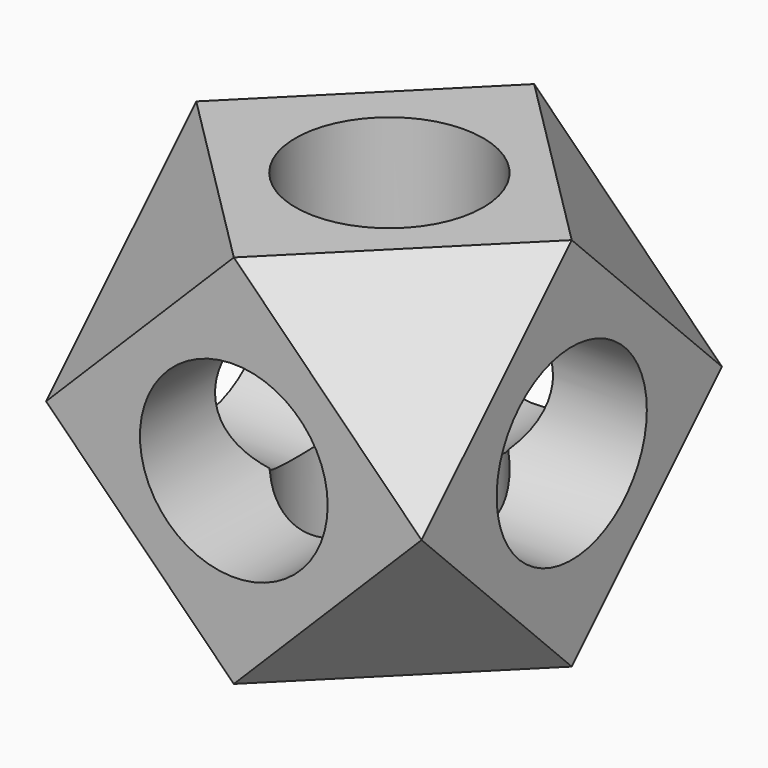
from build123d import *

# Parameters (mm, degrees)
F0_W      = 101.6
F0_H      = 101.6
F1_DEPTH  = 50.8
F6_W      = 98.9533215761
F6_H      = 109.5847634133
F7_DEPTH  = 29.3303936748
F9_R      = 55.4258032392
F10_DEPTH = 29.3303936748
F12_R     = 66.861305092
F13_DEPTH = 29.3303936748
F15_R     = 63.7455085669
F16_DEPTH = 29.3303936748
F21_R     = 117.7935216741
F22_DEPTH = 29.3303936748
F24_R     = 77.2031317043
F25_DEPTH = 29.3303936748
F27_R     = 77.6037163902
F28_DEPTH = 29.3303936748
F30_R     = 68.124609224
F31_DEPTH = 29.3303936748
F32_R     = 25.4
F33_DEPTH = 101.601
F34_R     = 25.4
F35_DEPTH = 101.601
F36_R     = 25.4
F37_DEPTH = 101.601


with BuildPart() as f1:
    # F0 (on Top) → F1 (new body, symmetric)
    with BuildSketch(Plane.XY):
        Rectangle(F0_W, F0_H)
    extrude(amount=F1_DEPTH, both=True)

    # F6 (on face) → F7 (cut, through all)
    with BuildSketch(Plane(origin=(-33.8666666667, -33.8666666667, 33.8666666667), x_dir=(0.8164965809, -0.4082482905, 0.4082482905), z_dir=(-0.5773502692, -0.5773502692, 0.5773502692))):
        with Locations((0, -1.2222639052)):
            Rectangle(F6_W, F6_H)
    extrude(amount=F7_DEPTH, mode=Mode.SUBTRACT)

    # F9 (on face) → F10 (cut, through all)
    with BuildSketch(Plane(origin=(33.8666666667, -33.8666666667, 33.8666666667), x_dir=(0.8164965809, 0.4082482905, -0.4082482905), z_dir=(-0.5773502692, 0.5773502692, -0.5773502692))):
        with Locations((-7.7910861, -7.1166269481)):
            Circle(F9_R)
    extrude(amount=-F10_DEPTH, mode=Mode.SUBTRACT)

    # F12 (on face) → F13 (cut, through all)
    with BuildSketch(Plane(origin=(-33.8666666667, 33.8666666667, 33.8666666667), x_dir=(0.8164965809, 0.4082482905, 0.4082482905), z_dir=(0.5773502692, -0.5773502692, -0.5773502692))):
        with Locations((-13.3071886376, -3.545607673)):
            Circle(F12_R)
    extrude(amount=-F13_DEPTH, mode=Mode.SUBTRACT)

    # F15 (on face) → F16 (cut, through all)
    with BuildSketch(Plane(origin=(-33.8666666667, -33.8666666667, -33.8666666667), x_dir=(0.8164965809, -0.4082482905, -0.4082482905), z_dir=(-0.5773502692, -0.5773502692, -0.5773502692))):
        with Locations((-3.3120266162, -3.843720071)):
            Circle(F15_R)
    extrude(amount=F16_DEPTH, mode=Mode.SUBTRACT)

    # F21 (on face) → F22 (cut, through all)
    with BuildSketch(Plane(origin=(33.8666666667, 33.8666666667, 33.8666666667), x_dir=(0.8164965809, -0.4082482905, -0.4082482905), z_dir=(-0.5773502692, -0.5773502692, -0.5773502692))):
        with Locations((0, -4.4537498616)):
            Circle(F21_R)
    extrude(amount=-F22_DEPTH, mode=Mode.SUBTRACT)

    # F24 (on face) → F25 (cut, through all)
    with BuildSketch(Plane(origin=(33.8666666667, 33.8666666667, -33.8666666667), x_dir=(-0.4082482905, 0.8164965809, 0.4082482905), z_dir=(0.5773502692, 0.5773502692, -0.5773502692))):
        with Locations((-11.0818976536, -8.1726238132)):
            Circle(F24_R)
    extrude(amount=F25_DEPTH, mode=Mode.SUBTRACT)

    # F27 (on face) → F28 (cut, through all)
    with BuildSketch(Plane(origin=(33.8666666667, -33.8666666667, -33.8666666667), x_dir=(-0.8164965809, -0.4082482905, -0.4082482905), z_dir=(-0.5773502692, 0.5773502692, 0.5773502692))):
        with Locations((0, -3.7476688158)):
            Circle(F27_R)
    extrude(amount=-F28_DEPTH, mode=Mode.SUBTRACT)

    # F30 (on face) → F31 (cut, through all)
    with BuildSketch(Plane(origin=(-33.8666666667, 33.8666666667, -33.8666666667), x_dir=(0.4082482905, 0.8164965809, 0.4082482905), z_dir=(0.5773502692, -0.5773502692, 0.5773502692))):
        with Locations((-6.1401822604, -7.8550539911)):
            Circle(F30_R)
    extrude(amount=-F31_DEPTH, mode=Mode.SUBTRACT)

    # F32 (on face) → F33 (cut, through all)
    with BuildSketch(Plane.XY.offset(50.8)):
        with Locations((1.4577903733, 0)):
            Circle(F32_R)
    extrude(amount=-F33_DEPTH, mode=Mode.SUBTRACT)

    # F34 (on face) → F35 (cut, through all)
    with BuildSketch(Plane.XZ.offset(50.8)):
        Circle(F34_R)
    extrude(amount=-F35_DEPTH, mode=Mode.SUBTRACT)

    # F36 (on face) → F37 (cut, through all)
    with BuildSketch(Plane.YZ.offset(50.8)):
        Circle(F36_R)
    extrude(amount=-F37_DEPTH, mode=Mode.SUBTRACT)


solid = f1.part
